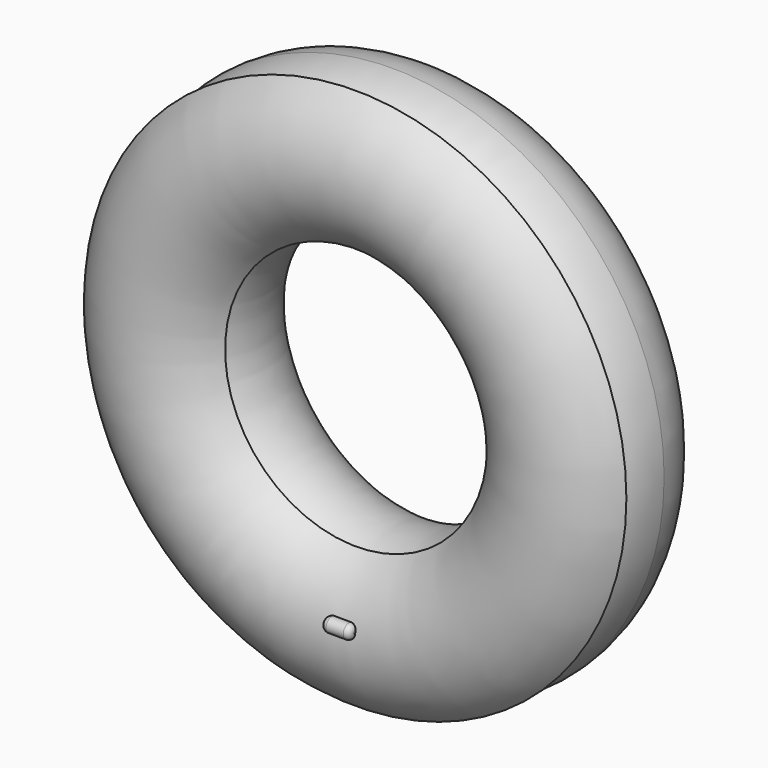
from build123d import *

# Parameters (mm, degrees)
F3_R     = 2.5
F4_DEPTH = 10
F5_R     = 2


with BuildPart() as f1:
    # F0 (on Top) → F1 (revolve)
    with BuildSketch(Plane.XY):
        with BuildLine():
            ThreePointArc((89.072557, -16.137105), (93.455424, -8.5919), (94.978217, 0))
            ThreePointArc((94.978217, 0), (61.546221, 23.535111), (50.666102, -15.875837))
            Line((50.666102, -15.875837), (89.072557, -16.137105))
        make_face()
    revolve(axis=Axis((0, 1.320562, 0), (0, 1, 0)))


with BuildPart() as f2:
    # F0 (on Top) → F2 (revolve)
    with BuildSketch(Plane.XY):
        with BuildLine():
            Line((89.072557, -16.137105), (50.666102, -15.875837))
            ThreePointArc((50.666102, -15.875837), (69.808153, -24.999422), (89.072557, -16.137105))
        make_face()
        with BuildLine():
            ThreePointArc((89.072557, -16.137105), (69.808153, -24.999422), (50.666102, -15.875837))
            Line((50.666102, -15.875837), (45.802698, -15.842753))
            ThreePointArc((45.802698, -15.842753), (70.172915, -29.330765), (94.724379, -16.175553))
            Line((94.724379, -16.175553), (89.072557, -16.137105))
        make_face()
    revolve(axis=Axis((0, 1.320562, 0), (0, 1, 0)))


with BuildPart() as f4:
    # F3 (on Right) → F4 (new body)
    with BuildSketch(Plane.YZ):
        with Locations((-28.970964, -63.803069)):
            Circle(F3_R)
    extrude(amount=F4_DEPTH)

    # F5
    f5_edges = [f4.edges().sort_by_distance(p)[0] for p in [
        (0, -31.470964, -63.803069),
        (10, -31.470964, -63.803069),
    ]]
    fillet(f5_edges, radius=F5_R)


solid = Compound([f1.part, f2.part, f4.part])
